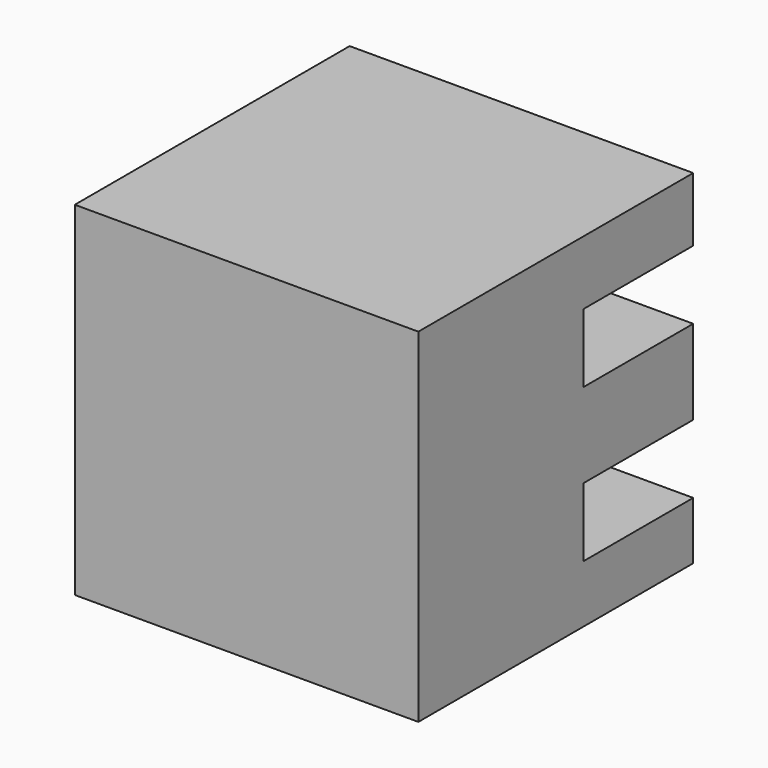
from build123d import *

# Parameters (mm, degrees)
F0_W     = 38.1
F0_H     = 38.1
F1_DEPTH = 38.1
F3_W     = 15.24
F3_H     = 7.62
F4_DEPTH = 38.1


with BuildPart() as f1:
    # F0 (on Front) → F1 (new body)
    with BuildSketch(Plane.XZ):
        with Locations((19.05, 19.05)):
            Rectangle(F0_W, F0_H)
    extrude(amount=F1_DEPTH)

    # F3 (on offset) → F4 (cut)
    with BuildSketch(Plane.YZ.offset(38.1)):
        with Locations((-7.62, 27.194374)):
            Rectangle(F3_W, F3_H)
        with Locations((-7.62, 10.195231)):
            Rectangle(F3_W, F3_H)
    extrude(amount=-F4_DEPTH, mode=Mode.SUBTRACT)


solid = f1.part
